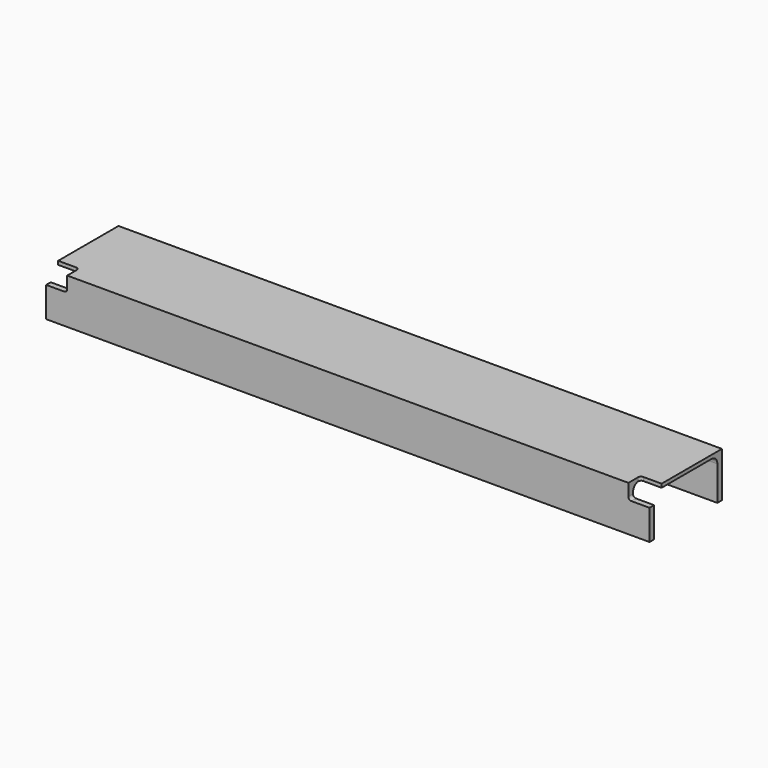
from build123d import *

# Parameters (mm, degrees)
F1_DEPTH = 500
F2_W     = 35
F2_H     = 25
F3_DEPTH = 25
F4_R     = 5


with BuildPart() as f1:
    # F0 (on Right) → F1 (new body)
    with BuildSketch(Plane.YZ):
        with BuildLine():
            Line((0, 75), (0, 0))
            Line((0, 0), (9.5, 0))
            Line((9.5, 0), (9.5, 57))
            ThreePointArc((9.5, 57), (13.014719, 65.485281), (21.5, 69))
            Line((21.5, 69), (128.5, 69))
            ThreePointArc((128.5, 69), (136.985281, 65.485281), (140.5, 57))
            Line((140.5, 57), (140.5, 0))
            Line((140.5, 0), (150, 0))
            Line((150, 0), (150, 75))
            Line((150, 75), (0, 75))
        make_face()
    extrude(amount=F1_DEPTH)

    # F2 (on Front) → F3 (cut)
    with BuildSketch(Plane.XZ):
        with Locations((482.5, 62.5)):
            Rectangle(F2_W, F2_H)
    extrude(amount=-F3_DEPTH, mode=Mode.SUBTRACT)

    # F4
    f4_edges = [f1.edges().sort_by_distance(p)[0] for p in [
        (465, 25, 72),
        (465, 4.75, 50),
    ]]
    fillet(f4_edges, radius=F4_R)

    # F5: F1 across plane


with BuildPart() as f1_1:
    add(f1.part)
    add(f1.part.mirror(Plane.YZ))


solid = f1_1.part
